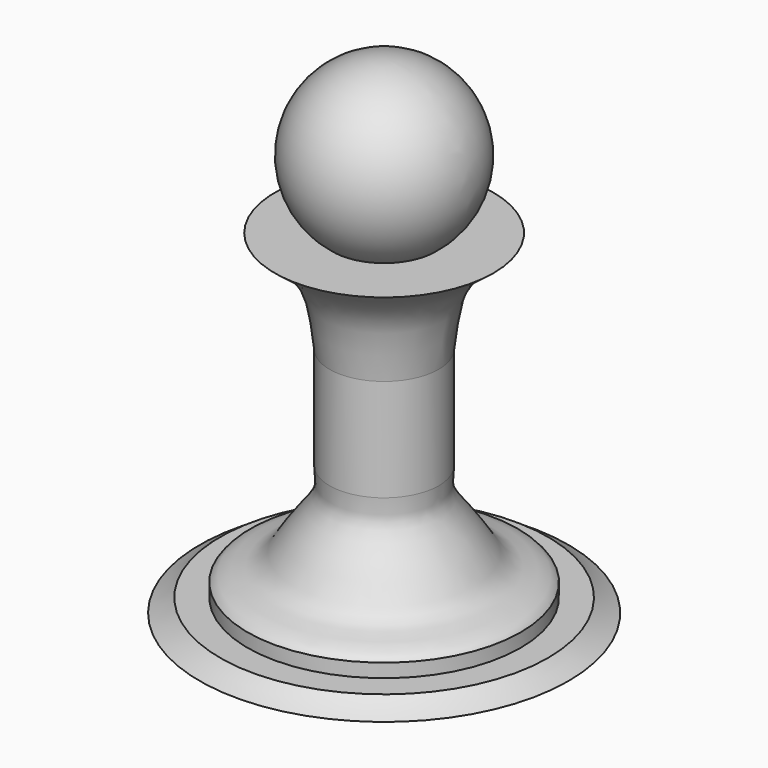
from build123d import *


with BuildPart() as f1:
    # F0 (on Front) → F1 (revolve)
    with BuildSketch(Plane.XZ):
        with BuildLine():
            Line((-34.3647946566, 23), (-42.8647946566, 23))
            ThreePointArc((-42.8647946566, 23), (-38.506253431, 36.9528470752), (-50.3647946566, 45.5))
            Line((-50.3647946566, 45.5), (-50.3647946566, 33))
            Line((-50.3647946566, 33), (-50.3647946566, 23))
            Line((-50.3647946566, 23), (-50.3647946566, 20.5))
            Line((-50.3647946566, 20.5), (-50.3647946566, 8))
            Line((-50.3647946566, 8), (-50.3647946566, -7))
            Line((-50.3647946566, -7), (-50.3647946566, -22))
            Line((-50.3647946566, -22), (-50.3647946566, -24))
            Line((-50.3647946566, -24), (-50.3647946566, -26))
            Line((-50.3647946566, -26), (-23.3647946566, -26))
            add(Edge.make_bspline(
                [(-26.3647946566, -24), (-25.9982562649, -24.3416980681), (-25.2078986327, -25.0784931272), (-24.0081464983, -25.678339827), (-23.3647946566, -26)],
                knots=[0, 0, 0, 0, 0.4637627029, 1, 1, 1, 1], degree=3))
            Line((-26.3647946566, -24), (-30.3647946566, -24))
            Line((-30.3647946566, -24), (-30.3647946566, -22))
            add(Edge.make_bspline(
                [(-42.3647946566, -7), (-42.4787878391, -8.0485692572), (-42.7391371687, -10.2209526594), (-40.7749060754, -12.9839321181), (-38.217886262, -16.0868243739), (-35.9512122605, -20.6909610356), (-31.2106876282, -20.5923382916), (-30.3647946566, -22)],
                knots=[0, 0, 0, 0, 0.1748825467, 0.3521897138, 0.5531673818, 0.7707374939, 1, 1, 1, 1], degree=3))
            Line((-42.3647946566, -7), (-42.3647946566, 8))
            add(Edge.make_bspline(
                [(-34.3647946566, 23), (-35.8662446943, 21.8921295755), (-38.7448384991, 19.7681102207), (-41.4636005123, 15.8398809391), (-42.0379354089, 10.8434911632), (-42.3647946566, 8)],
                knots=[0, 0, 0, 0, 0.3196282435, 0.6127942046, 1, 1, 1, 1], degree=3))
        make_face()
    revolve(axis=Axis((-50.3647946566, 0, -23), (0, 0, -1)))


solid = f1.part
